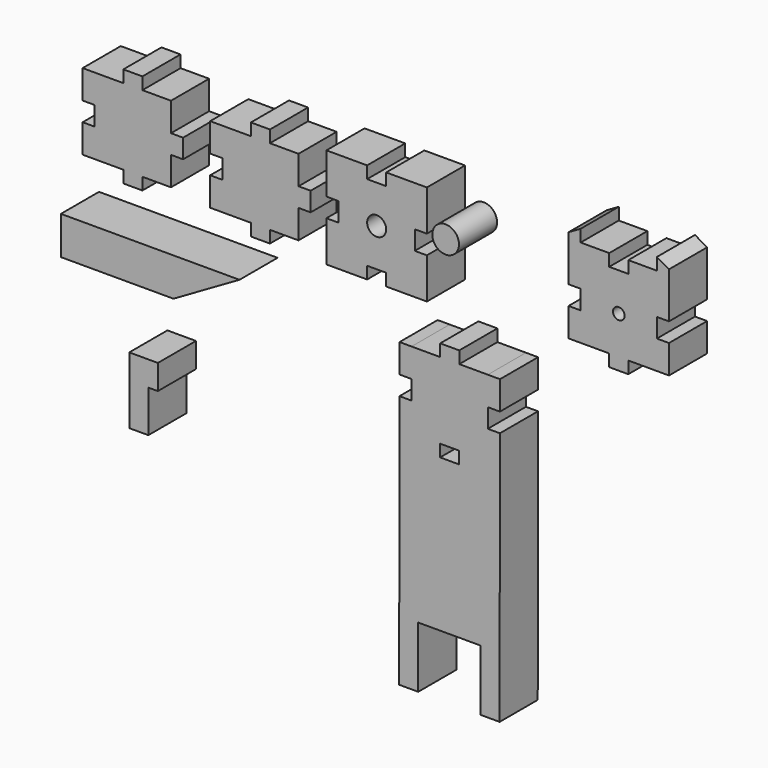
from build123d import *

# Parameters (mm, degrees)
F1_DEPTH = 25
F0_W     = 6.35
F0_H     = 10
F0_W_2   = 10
F0_H_2   = 6.35
F0_H_3   = 15
F0_R     = 5
F0_W_3   = 15
F0_R_2   = 3.05
F0_H_4   = 6.4862936566
F0_R_3   = 7
F0_W_4   = 5
F0_H_5   = 13


with BuildPart() as f1:
    # F0 (on Front) → F1 (new body)
    with BuildSketch(Plane.XZ):
        Polygon((7.716040658, -25.4975720675), (1.3951481077, -25.4969244297), (1.3777217764, -40.4991119474), (7.716040658, -40.4991119474), align=None)
        Polygon((27.677680377, -71.8491119474), (27.5612143982, -151.8505732841), (43.9112177113, -151.8505732841), (43.9112177113, -183.8505732841), (53.9112079293, -183.8650558751), (54.0661239456, -50.4991119474), (47.716040658, -50.4991119474), (47.716040658, -65.4991119474), (32.6869246952, -65.4991119474), (32.6869246952, -71.8491119474), align=None)
        Polygon((47.716040658, -50.4991119474), (47.716040658, -40.4991119474), (41.3542775405, -40.4991119474), (41.3543415102, -50.4991119474), align=None)
        Polygon((14.0577217764, -40.4991119474), (7.716040658, -40.4991119474), (7.716040658, -50.4969808545), (14.0543595396, -50.4991119474), align=None)
        Polygon((22.7451465298, -25.4991119474), (7.716040658, -25.4975720675), (7.716040658, -40.4991119474), (14.0577217764, -40.4991119474), (14.0543595396, -50.4991119474), (7.716040658, -50.4969808545), (7.716040658, -65.4991119474), (22.6869246952, -65.4991119474), (22.6869246952, -59.1491119474), (27.6961690134, -59.1491119474), (32.6869246952, -59.1491119474), (32.6869246952, -65.4991119474), (47.716040658, -65.4991119474), (47.716040658, -50.4991119474), (41.3543415102, -50.4991119474), (41.3542775405, -40.4991119474), (47.716040658, -40.4991119474), (47.716040658, -25.5103669452), (32.7451465298, -25.4991119474), (32.7451465298, -19.1560435671), (22.7451465298, -19.1560435671), align=None)
        Polygon((27.6961690134, -59.1491119474), (27.6869246952, -65.4991119474), (32.6869246952, -65.4991119474), (32.6869246952, -59.1491119474), align=None)
        Polygon((22.6869246952, -59.1491119474), (22.6869246952, -65.4991119474), (27.6869246952, -65.4991119474), (27.6961690134, -59.1491119474), align=None)
        Polygon((7.716040658, -50.4969808545), (1.3661108716, -50.4948458577), (1.2112110852, -183.8468176004), (11.2112110852, -183.8505732841), (11.2112110852, -151.8505732841), (27.5612143982, -151.8505732841), (27.677680377, -71.8491119474), (22.6869246952, -71.8491119474), (22.6869246952, -65.4991119474), (7.716040658, -65.4991119474), align=None)
        Polygon((54.0951449518, -25.5151627044), (47.716040658, -25.5103669452), (47.716040658, -40.4991119474), (54.0777398058, -40.4991119474), align=None)
    extrude(amount=F1_DEPTH)


with BuildPart() as f1b:
    # F0 (on Front) → F1, piece 2 (new body)
    with BuildSketch(Plane.XZ):
        Polygon((-133.4972210269, 6.9699799252), (-118.4972210269, 6.9699799252), (-118.4972210269, 21.9699799252), (-124.8472210269, 21.9699799252), (-124.8472210269, 31.9699799252), (-118.4972210269, 31.9699799252), (-118.4972210269, 46.9699799252), (-133.4972210269, 46.9699799252), (-133.4972210269, 40.6199799252), (-143.4972210269, 40.6199799252), (-143.4972210269, 46.9699799252), (-158.4972210269, 46.9699799252), (-158.4972210269, 31.9699799252), (-152.1472210269, 31.9699799252), (-152.1472210269, 21.9699799252), (-158.4972210269, 21.9699799252), (-158.4972210269, 6.9699799252), (-143.4972210269, 6.9699799252), (-143.4972210269, 13.3199799252), (-133.4972210269, 13.3199799252), align=None)
        with Locations((-155.3222210269, 26.9699799252)):
            Rectangle(F0_W, F0_H)
        with Locations((-138.4972210269, 10.1449799252)):
            Rectangle(F0_W_2, F0_H_2)
        with Locations((-121.6722210269, 26.9699799252)):
            Rectangle(F0_W, F0_H)
        with Locations((-138.4972210269, 43.7949799252)):
            Rectangle(F0_W_2, F0_H_2)
        with Locations((-138.4972210269, 3.7949799252)):
            Rectangle(F0_W_2, F0_H_2)
        with Locations((-161.6722210269, 39.4699799252)):
            Rectangle(F0_W, F0_H_3)
        with Locations((-161.6722210269, 14.4699799252)):
            Rectangle(F0_W, F0_H_3)
        with Locations((-138.4972210269, 50.1449799252)):
            Rectangle(F0_W_2, F0_H_2)
        with Locations((-115.3222210269, 26.9699799252)):
            Rectangle(F0_W, F0_H)
    extrude(amount=F1_DEPTH)


with BuildPart() as f1c:
    # F0 (on Front) → F1, piece 3 (new body)
    with BuildSketch(Plane.XZ):
        with Locations((-94.7615902387, 36.7200101991)):
            Rectangle(F0_W, F0_H_3)
        with Locations((-94.7615902387, 11.7200101991)):
            Rectangle(F0_W, F0_H_3)
        Polygon((-66.5865902387, 4.2200101991), (-51.5865902387, 4.2200101991), (-51.5865902387, 19.2200101991), (-57.9365902387, 19.2200101991), (-57.9365902387, 29.2200101991), (-51.5865902387, 29.2200101991), (-51.5865902387, 44.2200101991), (-66.5865902387, 44.2200101991), (-66.5865902387, 37.8700101991), (-76.5865902387, 37.8700101991), (-76.5865902387, 44.2200101991), (-91.5865902387, 44.2200101991), (-91.5865902387, 29.2200101991), (-85.2365902387, 29.2200101991), (-85.2365902387, 19.2200101991), (-91.5865902387, 19.2200101991), (-91.5865902387, 4.2200101991), (-76.5865902387, 4.2200101991), (-76.5865902387, 10.5700101991), (-66.5865902387, 10.5700101991), align=None)
        with Locations((-71.5865902387, 41.0450101991)):
            Rectangle(F0_W_2, F0_H_2)
        with Locations((-71.5865902387, 47.3950101991)):
            Rectangle(F0_W_2, F0_H_2)
        with Locations((-54.7615902387, 24.2200101991)):
            Rectangle(F0_W, F0_H)
        with Locations((-48.4115902387, 24.2200101991)):
            Rectangle(F0_W, F0_H)
        with Locations((-71.5865902387, 7.3950101991)):
            Rectangle(F0_W_2, F0_H_2)
        with Locations((-71.5865902387, 1.0450101991)):
            Rectangle(F0_W_2, F0_H_2)
        with Locations((-88.4115902387, 24.2200101991)):
            Rectangle(F0_W, F0_H)
    extrude(amount=F1_DEPTH)


with BuildPart() as f1d:
    # F0 (on Front) → F1, piece 4 (new body)
    with BuildSketch(Plane.XZ):
        Polygon((-5.6017105066, 4.2200101991), (9.3982894934, 4.2200101991), (9.3982894934, 19.2200101991), (3.0482894934, 19.2200101991), (3.0482894934, 29.2200101991), (9.3982894934, 29.2200101991), (9.3982894934, 44.2200101991), (-5.6017105066, 44.2200101991), (-5.6017105066, 37.8700101991), (-15.6017105066, 37.8700101991), (-15.6017105066, 44.2200101991), (-30.6017105066, 44.2200101991), (-30.6017105066, 29.2200101991), (-24.2517105066, 29.2200101991), (-24.2517105066, 19.2200101991), (-30.6017105066, 19.2200101991), (-30.6017105066, 4.2200101991), (-15.6017105066, 4.2200101991), (-15.6017105066, 10.5700101991), (-5.6017105066, 10.5700101991), align=None)
        with Locations((-10.6017105066, 24.2200101991)):
            Circle(F0_R, mode=Mode.SUBTRACT)
        with Locations((-27.4267105066, 24.2200101991)):
            Rectangle(F0_W, F0_H)
        with Locations((-33.7767105066, 11.7200101991)):
            Rectangle(F0_W, F0_H_3)
        with Locations((6.2232894934, 24.2200101991)):
            Rectangle(F0_W, F0_H)
        with Locations((-10.6017105066, 41.0450101991)):
            Rectangle(F0_W_2, F0_H_2)
        with Locations((-10.6017105066, 7.3950101991)):
            Rectangle(F0_W_2, F0_H_2)
        with Locations((-33.7767105066, 47.3950101991)):
            Rectangle(F0_W, F0_H_2)
        with Locations((-33.7767105066, 36.7200101991)):
            Rectangle(F0_W, F0_H_3)
        with Locations((-23.1017105066, 47.3950101991)):
            Rectangle(F0_W_3, F0_H_2)
        with Locations((1.8982894934, 47.3950101991)):
            Rectangle(F0_W_3, F0_H_2)
        with Locations((12.5732894934, 47.3950101991)):
            Rectangle(F0_W, F0_H_2)
        with Locations((12.5732894934, 36.7200101991)):
            Rectangle(F0_W, F0_H_3)
        with Locations((12.5732894934, 11.7200101991)):
            Rectangle(F0_W, F0_H_3)
        with Locations((12.5732894934, 1.0450101991)):
            Rectangle(F0_W, F0_H_2)
        with Locations((1.8982894934, 1.0450101991)):
            Rectangle(F0_W_3, F0_H_2)
        with Locations((-23.1017105066, 1.0450101991)):
            Rectangle(F0_W_3, F0_H_2)
        with Locations((-33.7767105066, 1.0450101991)):
            Rectangle(F0_W, F0_H_2)
    extrude(amount=F1_DEPTH)


with BuildPart() as f1e:
    # F0 (on Front) → F1, piece 5 (new body)
    with BuildSketch(Plane.XZ):
        with Locations((116.4145616193, 1.8449799252)):
            Rectangle(F0_W_2, F0_H_2)
        with Locations((116.4145616193, 8.1949799252)):
            Rectangle(F0_W_2, F0_H_2)
        Polygon((121.4145616193, 5.0199799252), (136.4145616193, 5.0199799252), (136.4145616193, 20.0199799252), (130.0645616193, 20.0199799252), (130.0645616193, 30.0199799252), (136.4145616193, 30.0199799252), (136.4145616193, 45.0199799252), (121.4145616193, 45.0199799252), (121.4145616193, 38.5336862686), (111.4145616193, 38.5336862686), (111.4145616193, 45.0199799252), (96.4145616193, 45.0199799252), (96.4145616193, 30.0199799252), (102.7645616193, 30.0199799252), (102.7645616193, 20.0199799252), (96.4145616193, 20.0199799252), (96.4145616193, 5.0199799252), (111.4145616193, 5.0199799252), (111.4145616193, 11.3699799252), (121.4145616193, 11.3699799252), align=None)
        with Locations((116.4145616193, 25.0199799252)):
            Circle(F0_R_2, mode=Mode.SUBTRACT)
        with Locations((93.2395616193, 12.5199799252)):
            Rectangle(F0_W, F0_H_3)
        with Locations((99.5895616193, 25.0199799252)):
            Rectangle(F0_W, F0_H)
        Polygon((90.0645616193, 30.0199799252), (96.4145616193, 30.0199799252), (96.4145616193, 45.0199799252), (96.4145616193, 51.3699799252), (90.0645616193, 51.3699799252), align=None)
        with Locations((116.4145616193, 41.7768330969)):
            Rectangle(F0_W_2, F0_H_4)
        with Locations((103.9145616193, 48.1949799252)):
            Rectangle(F0_W_3, F0_H_2)
        with Locations((128.9145616193, 48.1949799252)):
            Rectangle(F0_W_3, F0_H_2)
        with Locations((133.2395616193, 25.0199799252)):
            Rectangle(F0_W, F0_H)
        with Locations((139.5895616193, 12.5199799252)):
            Rectangle(F0_W, F0_H_3)
        Polygon((136.4145616193, 30.0199799252), (142.7645616193, 30.0199799252), (142.7645616193, 51.3699799252), (136.4145616193, 51.3699799252), (136.4145616193, 45.0199799252), align=None)
        Polygon((136.4145616193, 51.3699799252), (142.7645616193, 51.3699799252), (142.7645616193, 54.0538057158), (136.4145616193, 57.7199799252), align=None)
        Polygon((96.4145616193, 51.3699799252), (96.4145616193, 57.7199799252), (90.0645616193, 54.0538057158), (90.0645616193, 51.3699799252), align=None)
    extrude(amount=F1_DEPTH)


with BuildPart() as f1f:
    # F0 (on Front) → F1, piece 6 (new body)
    with BuildSketch(Plane.XZ):
        with Locations((25.5829133093, 29.7596957535)):
            Circle(F0_R_3)
    extrude(amount=F1_DEPTH)


with BuildPart() as f1g:
    # F0 (on Front) → F1, piece 7 (new body)
    with BuildSketch(Plane.XZ):
        Polygon((-176.2549936652, -44.0515466034), (-117.2049936652, -44.0515466034), (-82.5639775138, -24.0515466034), (-176.2549936652, -24.0515466034), align=None)
    extrude(amount=F1_DEPTH)


with BuildPart() as f1h:
    # F0 (on Front) → F1, piece 8 (new body)
    with BuildSketch(Plane.XZ):
        Polygon((-140.3850317001, -111.3759502769), (-130.3850317001, -111.3759502769), (-130.3850317001, -89.3759502769), (-130.3850317001, -76.3759502769), (-140.3850317001, -76.3759502769), align=None)
        with Locations((-127.8850317001, -82.8759502769)):
            Rectangle(F0_W_4, F0_H_5)
    extrude(amount=F1_DEPTH)


solid = Compound([f1.part, f1b.part, f1c.part, f1d.part, f1e.part, f1f.part, f1g.part, f1h.part])
